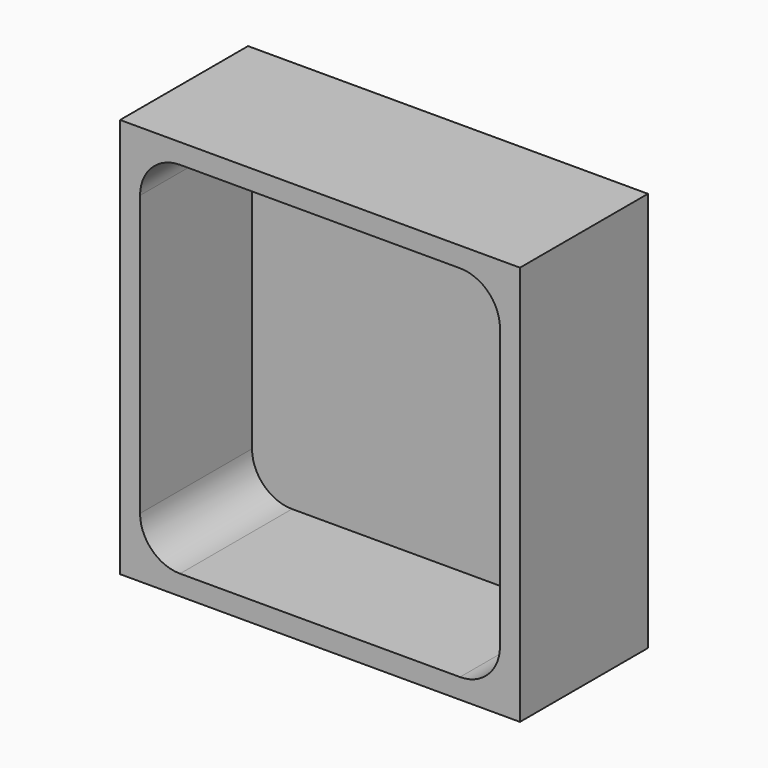
from build123d import *

# Parameters (mm, degrees)
F0_W          = 127
F0_H          = 127
F1_DEPTH      = 25.4
F1_DEPTH_BACK = 25.4
F2_W          = 114.3
F2_H          = 114.3
F3_DEPTH      = 44.45
F4_R          = 12.7


with BuildPart() as f1:
    # F0 (on Front) → F1 (new body, two sides)
    with BuildSketch(Plane.XZ) as f1_sk:
        with Locations((-4.264493, -4.37899)):
            Rectangle(F0_W, F0_H)
    extrude(amount=F1_DEPTH)
    extrude(f1_sk.sketch, amount=-F1_DEPTH_BACK)

    # F2 (on face) → F3 (cut)
    with BuildSketch(Plane.XZ.offset(25.4)):
        with Locations((-4.264493, -4.37899)):
            Rectangle(F2_W, F2_H)
    extrude(amount=-F3_DEPTH, mode=Mode.SUBTRACT)

    # F4
    f4_edges = [f1.edges().sort_by_distance(p)[0] for p in [
        (-61.414493, -3.175, -61.52899),
        (52.885507, -3.175, -61.52899),
        (52.885507, -3.175, 52.77101),
        (-61.414493, -3.175, 52.77101),
    ]]
    fillet(f4_edges, radius=F4_R)


solid = f1.part
